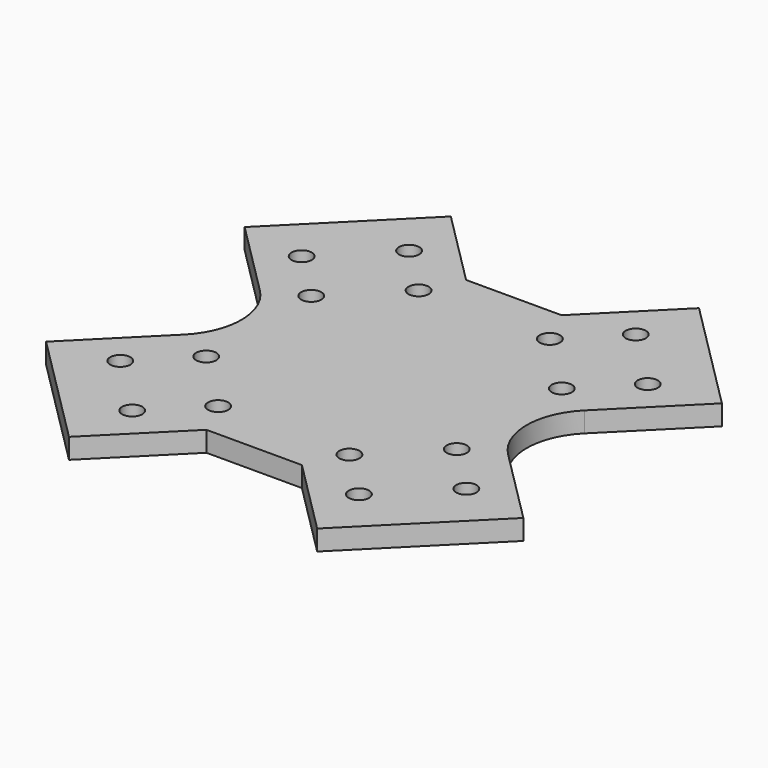
from build123d import *

# Parameters (mm, degrees)
F0_R     = 1.5
F1_DEPTH = 3
F2_R     = 10
F3_SIZE  = 10


with BuildPart() as f1:
    # F0 (on Top) → F1 (new body)
    with BuildSketch(Plane.XY):
        Polygon((-35.355339, 18.384776), (-16.970563, 0), (-35.355339, -18.384776), (-18.384776, -35.355339), (0, -16.970563), (18.384776, -35.355339), (35.355339, -18.384776), (16.970563, 0), (35.355339, 18.384776), (18.384776, 35.355339), (0, 16.970563), (-18.384776, 35.355339), align=None)
        with Locations((-16.793786, -25.632621)):
            Circle(F0_R, mode=Mode.SUBTRACT)
        with Locations((-9.722718, -18.561553)):
            Circle(F0_R, mode=Mode.SUBTRACT)
        with Locations((-25.632621, -16.793786)):
            Circle(F0_R, mode=Mode.SUBTRACT)
        with Locations((-18.561553, -9.722718)):
            Circle(F0_R, mode=Mode.SUBTRACT)
        with Locations((16.793786, -25.632621)):
            Circle(F0_R, mode=Mode.SUBTRACT)
        with Locations((9.722718, -18.561553)):
            Circle(F0_R, mode=Mode.SUBTRACT)
        with Locations((25.632621, -16.793786)):
            Circle(F0_R, mode=Mode.SUBTRACT)
        with Locations((18.561553, -9.722718)):
            Circle(F0_R, mode=Mode.SUBTRACT)
        with Locations((-18.561553, 9.722718)):
            Circle(F0_R, mode=Mode.SUBTRACT)
        with Locations((-25.632621, 16.793786)):
            Circle(F0_R, mode=Mode.SUBTRACT)
        with Locations((-9.722718, 18.561553)):
            Circle(F0_R, mode=Mode.SUBTRACT)
        with Locations((-16.793786, 25.632621)):
            Circle(F0_R, mode=Mode.SUBTRACT)
        with Locations((18.561553, 9.722718)):
            Circle(F0_R, mode=Mode.SUBTRACT)
        with Locations((25.632621, 16.793786)):
            Circle(F0_R, mode=Mode.SUBTRACT)
        with Locations((9.722718, 18.561553)):
            Circle(F0_R, mode=Mode.SUBTRACT)
        with Locations((16.793786, 25.632621)):
            Circle(F0_R, mode=Mode.SUBTRACT)
    extrude(amount=F1_DEPTH)

    # F2
    f2_edges = [f1.edges().sort_by_distance(p)[0] for p in [
        (-16.970563, 0, 1.5),
        (16.970563, 0, 1.5),
    ]]
    fillet(f2_edges, radius=F2_R)

    # F3
    f3_edges = [f1.edges().sort_by_distance(p)[0] for p in [
        (0, -16.970563, 1.5),
        (0, 16.970563, 1.5),
    ]]
    chamfer(f3_edges, length=F3_SIZE)


solid = f1.part
